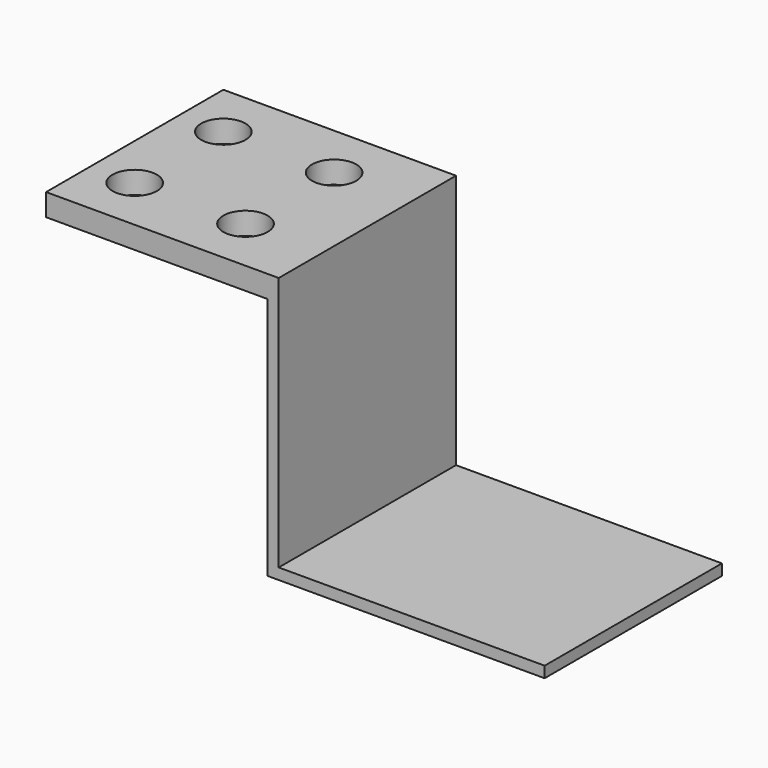
from build123d import *

# Parameters (mm, degrees)
CYLINDER003_R     = 2
CYLINDER003_DEPTH = 10
BOX003_W          = 25
BOX003_H          = 20
BOX003_DEPTH      = 1
BOX002_W          = 20
BOX002_H          = 1
BOX002_DEPTH      = 23
BOX004_W          = 20
BOX004_H          = 20
BOX004_DEPTH      = 2


with BuildPart() as cylinder003:
    # Cylinder003 → Cylinder003 (new body)
    with BuildSketch(Plane(origin=(-7, 5, 20), x_dir=(1, 0, 0), z_dir=(0, 0, 1))):
        Circle(CYLINDER003_R)
    extrude(amount=CYLINDER003_DEPTH)


with BuildPart() as cylinder004:
    # Link base: copy of Cylinder003
    add(cylinder003.part)


with BuildPart() as cylinder004_1:
    # Link placement: moved
    add(cylinder004.part.moved(Location((-10, 0, 0))))


with BuildPart() as cylinder005:
    # Link001 base: copy of Cylinder003
    add(cylinder003.part)


with BuildPart() as cylinder005_1:
    # Link001 placement: moved
    add(cylinder005.part.moved(Location((-10, 10, 0))))


with BuildPart() as cylinder006:
    # Link002 base: copy of Cylinder003
    add(cylinder003.part)


with BuildPart() as cylinder006_1:
    # Link002 placement: moved
    add(cylinder006.part.moved(Location((0, 10, 0))))


with BuildPart() as fusion004:
    # Fusion004 base: copy of Cylinder003
    add(cylinder003.part)

    # Fusion004: union Cylinder004, Cylinder005, Cylinder006
    add(cylinder004_1.part)
    add(cylinder005_1.part)
    add(cylinder006_1.part)


with BuildPart() as s_abajo:
    # Box003 → Box003 (new body)
    with BuildSketch(Plane(origin=(287, 20, -74), x_dir=(1, 0, 0), z_dir=(0, 0, 1))):
        with Locations((12.5, 10)):
            Rectangle(BOX003_W, BOX003_H)
    extrude(amount=BOX003_DEPTH)


with BuildPart() as s_lateral:
    # Box002 → Box002 (new body)
    with BuildSketch(Plane(origin=(288, 20, -73), x_dir=(0, 1, 0), z_dir=(0, 0, 1))):
        with Locations((10, 0.5)):
            Rectangle(BOX002_W, BOX002_H)
    extrude(amount=BOX002_DEPTH)


with BuildPart() as soporte:
    # Box004 → Box004 (new body)
    with BuildSketch(Plane(origin=(267, 20, -52), x_dir=(1, 0, 0), z_dir=(0, 0, 1))):
        with Locations((10, 10)):
            Rectangle(BOX004_W, BOX004_H)
    extrude(amount=BOX004_DEPTH)

    # Fusion003: union s_abajo, s_lateral
    add(s_abajo.part)
    add(s_lateral.part)


with BuildPart() as soporte_1:
    # Fusion003 placement: moved
    add(soporte.part.moved(Location((-288, -20, 73))))

    # Cut001: cut Fusion004
    add(fusion004.part, mode=Mode.SUBTRACT)


with BuildPart() as soporte_2:
    # Cut001 placement: moved
    add(soporte_1.part.moved(Location((288, 20, -73))))


solid = soporte_2.part
